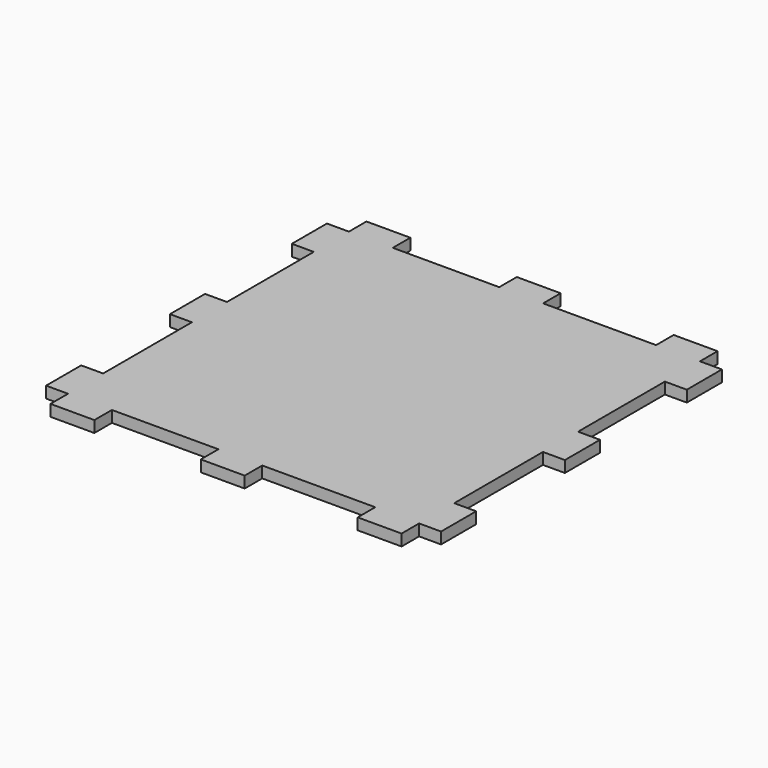
from build123d import *

# Parameters (mm, degrees)
F1_DEPTH = 3.302


with BuildPart() as f1:
    # F0 (on Top) → F1 (new body)
    with BuildSketch(Plane.XY):
        Polygon((-7.29726, 50.8), (-38.1, 50.8), (-38.1, 57.15), (-50.8, 57.15), (-50.8, 50.8), (-57.15, 50.8), (-57.15, 38.1), (-50.8, 38.1), (-50.8, 6.698998), (-57.15, 6.698998), (-57.15, -6.001002), (-50.8, -6.001002), (-50.8, -38.1), (-57.15, -38.1), (-57.15, -50.8), (-50.8, -50.8), (-50.8, -57.15), (-38.1, -57.15), (-38.1, -50.8), (-7.29726, -50.8), (-7.29726, -57.15), (5.40274, -57.15), (5.40274, -50.8), (38.1, -50.8), (38.1, -57.15), (50.8, -57.15), (50.8, -50.8), (57.15, -50.8), (57.15, -38.1), (50.8, -38.1), (50.8, -6.001002), (57.15, -6.001002), (57.15, 6.698998), (50.8, 6.698998), (50.8, 38.1), (57.15, 38.1), (57.15, 50.8), (50.8, 50.8), (50.8, 57.15), (38.1, 57.15), (38.1, 50.8), (5.40274, 50.8), (5.40274, 57.15), (-7.29726, 57.15), align=None)
    extrude(amount=F1_DEPTH)


solid = f1.part
